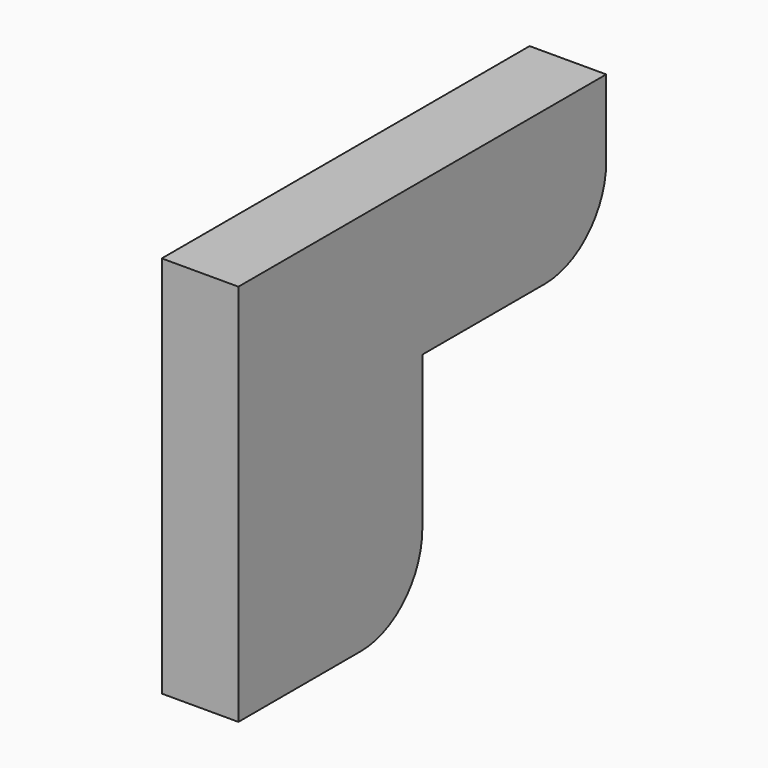
from build123d import *

# Parameters (mm, degrees)
F0_W     = 10
F0_H     = 40
F0_H_2   = 10
F0_W_2   = 30
F1_DEPTH = 10


with BuildPart() as f1:
    # F0 (on Right) → F1 (new body)
    with BuildSketch(Plane.YZ):
        with Locations((5, 20)):
            Rectangle(F0_W, F0_H)
        with Locations((55, 45)):
            Rectangle(F0_W, F0_H_2)
        Polygon((0, 50), (0, 40), (10, 40), (20, 40), (20, 50), align=None)
        with Locations((35, 45)):
            Rectangle(F0_W_2, F0_H_2)
        with BuildLine():
            Line((10, 40), (10, 0))
            Line((10, 0), (20, 0))
            ThreePointArc((20, 0), (27.071068, 2.928932), (30, 10))
            Line((30, 10), (30, 30))
            Line((30, 30), (40, 30))
            Line((40, 30), (50, 30))
            ThreePointArc((50, 30), (57.071068, 32.928932), (60, 40))
            Line((60, 40), (50, 40))
            Line((50, 40), (20, 40))
            Line((20, 40), (10, 40))
        make_face()
    extrude(amount=F1_DEPTH)


solid = f1.part
